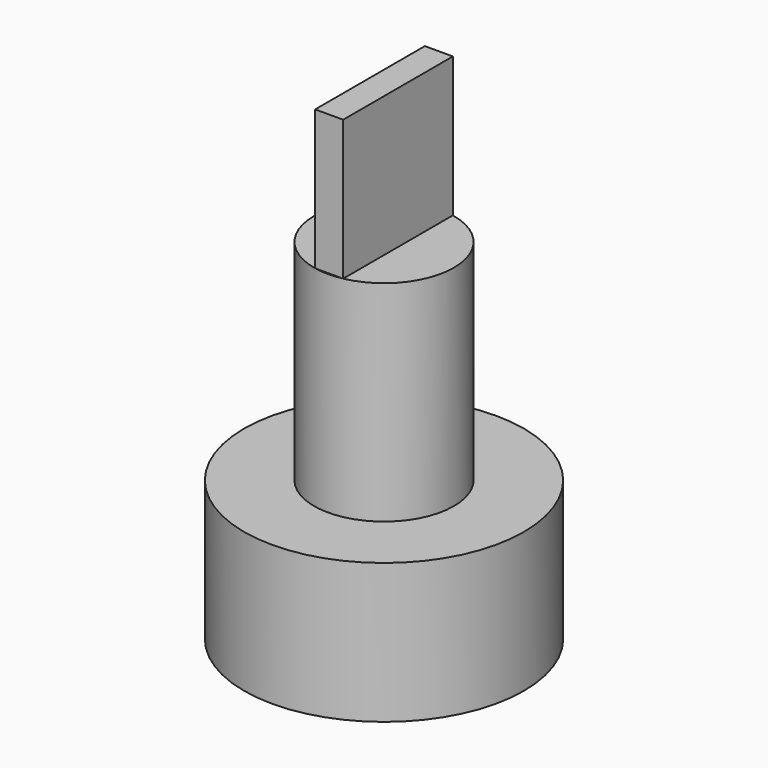
from build123d import *

# Parameters (mm, degrees)
F0_R     = 4
F1_DEPTH = 4
F2_R     = 2
F3_DEPTH = 6
F4_W     = 0.8
F4_H     = 3.919184
F5_DEPTH = 4


with BuildPart() as f1:
    # F0 (on Top) → F1 (new body)
    with BuildSketch(Plane.XY):
        with Locations((-51.708624, -21.201266)):
            Circle(F0_R)
    extrude(amount=F1_DEPTH)

    # F2 (on face) → F3 (join)
    with BuildSketch(Plane.XY.offset(4)):
        with Locations((-51.708624, -21.201266)):
            Circle(F2_R)
    extrude(amount=F3_DEPTH)

    # F4 (on face) → F5 (join)
    with BuildSketch(Plane.XY.offset(10)):
        with Locations((-51.708624, -21.201266)):
            Rectangle(F4_W, F4_H)
    extrude(amount=F5_DEPTH)


solid = f1.part
